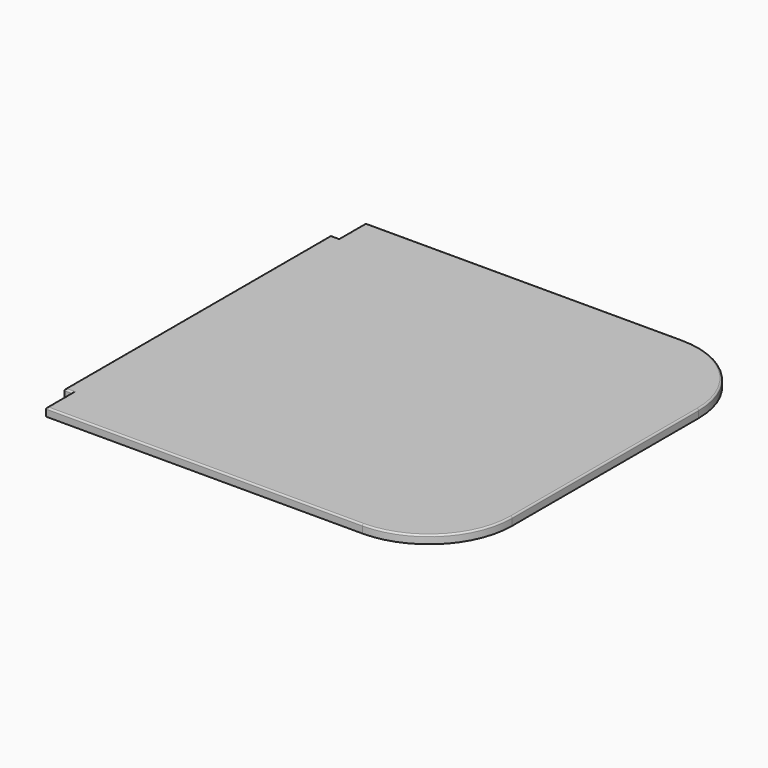
from build123d import *

# Parameters (mm, degrees)
F0_W     = 12.7
F0_H     = 508
F1_DEPTH = 12.5222
F2_R     = 2.452841


with BuildPart() as f1:
    # F0 (on Top) → F1 (new body)
    with BuildSketch(Plane.XY):
        with BuildLine():
            Line((-74.624596, 605.821555), (-557.224596, 605.821555))
            Line((-557.224596, 605.821555), (-557.224596, 555.021555))
            Line((-557.224596, 555.021555), (-557.224596, 47.021555))
            Line((-557.224596, 47.021555), (-557.224596, -3.778445))
            Line((-557.224596, -3.778445), (-74.624596, -3.778445))
            ThreePointArc((-74.624596, -3.778445), (15.177965, 33.418993), (52.375404, 123.221555))
            Line((52.375404, 123.221555), (52.375404, 478.821555))
            ThreePointArc((52.375404, 478.821555), (15.177965, 568.624116), (-74.624596, 605.821555))
        make_face()
        with Locations((-563.574596, 301.021555)):
            Rectangle(F0_W, F0_H)
    extrude(amount=F1_DEPTH)

    # F2
    f2_edges = [f1.edges().sort_by_distance(p)[0] for p in [
        (52.375404, 301.021555, 12.5222),
        (15.177965, 568.624116, 12.5222),
        (-315.924596, 605.821555, 12.5222),
        (-557.224596, 580.421555, 12.5222),
        (-563.574596, 555.021555, 12.5222),
        (-569.924596, 301.021555, 12.5222),
        (-563.574596, 47.021555, 12.5222),
        (-557.224596, 21.621555, 12.5222),
        (-315.924596, -3.778445, 12.5222),
        (15.177965, 33.418993, 12.5222),
    ]]
    fillet(f2_edges, radius=F2_R)


solid = f1.part
